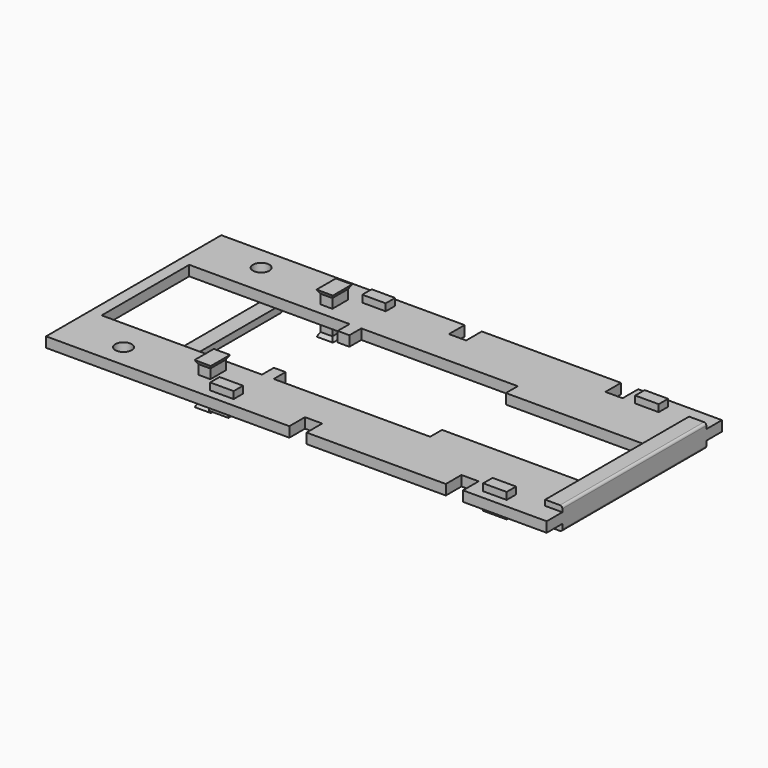
from build123d import *

# Parameters (mm, degrees)
F0_R      = 1.05
F1_DEPTH  = 1.3
F3_W      = 2.2
F3_H      = 23
F4_DEPTH  = 0.7
F5_W      = 2.5
F5_H      = 1.5
F5_W_2    = 3
F5_W_3    = 2.2
F5_H_2    = 23
F6_DEPTH  = 0.9
F7_R      = 0.3
F8_R      = 0.3
F9_W      = 2
F9_H      = 1
F9_H_2    = 14
F10_DEPTH = 0.9
F3_W_2    = 3
F3_H_2    = 1.5
F11_DEPTH = 0.9
F5_W_4    = 1.5
F5_H_3    = 2.5
F12_DEPTH = 1.8
F13_W     = 1.5
F13_H     = 2.5
F14_DEPTH = 0.5
F14_TAPER = -30
F3_W_3    = 1.5
F3_H_3    = 2.5
F15_DEPTH = 1.2
F16_W     = 1.5
F16_H     = 2.5
F17_DEPTH = 0.5
F17_TAPER = -30


with BuildPart() as f1:
    # F0 (on Top) → F1 (new body)
    with BuildSketch(Plane.XY):
        Polygon((21.3, -14), (32, -14), (32, 14), (21.3, 14), (21.3, 11.5), (19.1, 11.5), (19.1, 14), (1.3, 14), (1.3, 11.5), (-0.9, 11.5), (-0.9, 14), (-32, 14), (-32, -14), (-0.9, -14), (-0.9, -11.5), (1.3, -11.5), (1.3, -14), (19.1, -14), (19.1, -11.5), (21.3, -11.5), align=None)
        with Locations((-24.5, -11)):
            Circle(F0_R, mode=Mode.SUBTRACT)
        Polygon((-10, 7), (-10, 5.1), (-8.5, 5.1), (-8.5, 7), (11.5, 7), (11.5, 5.1), (29.6, 5.1), (29.6, -5.1), (11.5, -5.1), (11.5, -7), (-8.5, -7), (-8.5, -5.1), (-10, -5.1), (-10, -7), (-30.5, -7), (-30.5, -5.1), (-30.5, 5.1), (-30.5, 7), align=None, mode=Mode.SUBTRACT)
        with Locations((-24.5, 11)):
            Circle(F0_R, mode=Mode.SUBTRACT)
    extrude(amount=F1_DEPTH)

    # F3 (on face) → F4 (join)
    with BuildSketch(Plane.XY.offset(1.3)):
        with Locations((30.9, 0)):
            Rectangle(F3_W, F3_H)
    extrude(amount=F4_DEPTH)

    # F5 (on face) → F6 (join)
    with BuildSketch(Plane(origin=(0, 0, 0), x_dir=(1, 0, 0), z_dir=(0, 0, -1))):
        with Locations((-10.65, 12.3576217964)):
            Rectangle(F5_W, F5_H)
        with Locations((-10.65, -12.3576217964)):
            Rectangle(F5_W, F5_H)
        with Locations((24.5, -12.15)):
            Rectangle(F5_W_2, F5_H)
        with Locations((30.9, 0)):
            Rectangle(F5_W_3, F5_H_2)
        with Locations((24.5, 12.15)):
            Rectangle(F5_W_2, F5_H)
    extrude(amount=F6_DEPTH)

    # F7
    f7_edges = [f1.edges().sort_by_distance(p)[0] for p in [
        (32, 0, -0.9),
    ]]
    fillet(f7_edges, radius=F7_R)

    # F8
    f8_edges = [f1.edges().sort_by_distance(p)[0] for p in [
        (32, 0, 2),
    ]]
    fillet(f8_edges, radius=F8_R)

    # F9 (on face) → F10 (join)
    with BuildSketch(Plane(origin=(0, 0, 0), x_dir=(1, 0, 0), z_dir=(0, 0, -1))):
        with Locations((-20.5, 7.5)):
            Rectangle(F9_W, F9_H)
        with Locations((-20.5, -7.5)):
            Rectangle(F9_W, F9_H)
        with Locations((-20.5, 0)):
            Rectangle(F9_W, F9_H_2)
    extrude(amount=F10_DEPTH)

    # F3 (on face) → F11 (join)
    with BuildSketch(Plane.XY.offset(1.3)):
        with Locations((-10.4, 12.15)):
            Rectangle(F3_W_2, F3_H_2)
        with Locations((-10.4, -12.15)):
            Rectangle(F3_W_2, F3_H_2)
        with Locations((24.5, -12.15)):
            Rectangle(F3_W_2, F3_H_2)
        with Locations((24.5, 12.15)):
            Rectangle(F3_W_2, F3_H_2)
    extrude(amount=F11_DEPTH)

    # F5 (on face) → F12 (join)
    with BuildSketch(Plane(origin=(0, 0, 0), x_dir=(1, 0, 0), z_dir=(0, 0, -1))):
        with Locations((-14.15, 9.75)):
            Rectangle(F5_W_4, F5_H_3)
        with Locations((-14.15, -9.75)):
            Rectangle(F5_W_4, F5_H_3)
    extrude(amount=F12_DEPTH)

    # F13 (on face) → F14 (join)
    with BuildSketch(Plane(origin=(0, 0, -1.8), x_dir=(1, 0, 0), z_dir=(0, 0, -1))):
        with Locations((-14.15, 9.75)):
            Rectangle(F13_W, F13_H)
        with Locations((-14.15, -9.75)):
            Rectangle(F13_W, F13_H)
    extrude(amount=F14_DEPTH, taper=F14_TAPER)

    # F3 (on face) → F15 (join)
    with BuildSketch(Plane.XY.offset(1.3)):
        with Locations((-14.15, 9.75)):
            Rectangle(F3_W_3, F3_H_3)
        with Locations((-14.15, -9.75)):
            Rectangle(F3_W_3, F3_H_3)
    extrude(amount=F15_DEPTH)

    # F16 (on face) → F17 (join)
    with BuildSketch(Plane.XY.offset(2.5)):
        with Locations((-14.15, 9.75)):
            Rectangle(F16_W, F16_H)
        with Locations((-14.15, -9.75)):
            Rectangle(F16_W, F16_H)
    extrude(amount=F17_DEPTH, taper=F17_TAPER)


solid = f1.part
